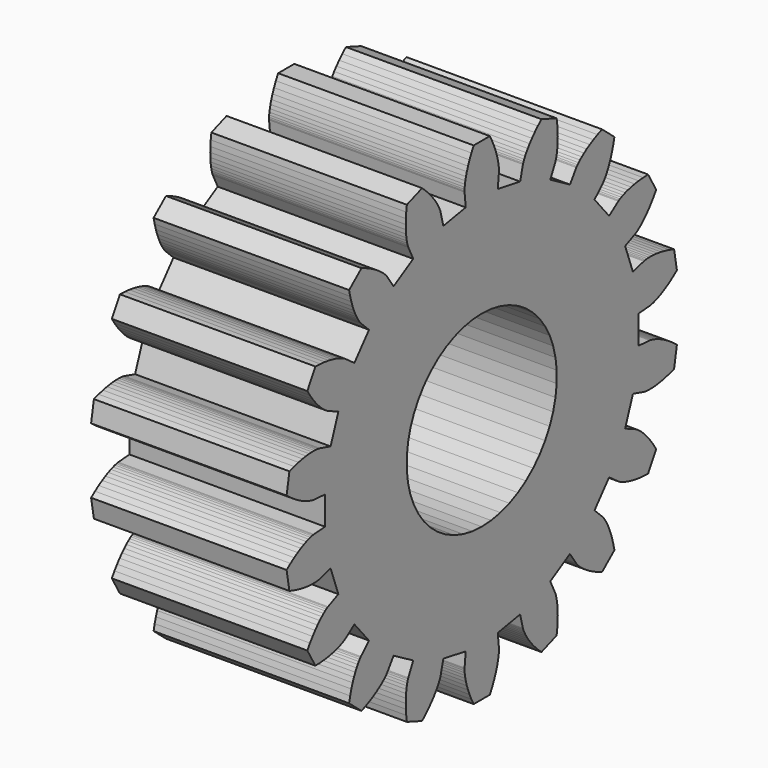
from build123d import *

# Parameters (mm, degrees)
PRISM_DEPTH            = 7
LINEAREXTRUDE_DEPTH    = 5
DIFFERENCE_PITCH_ANGLE = 90


with BuildPart() as prism:
    # prism → prism (new body)
    with BuildSketch(Plane.XY.offset(-1)):
        Polygon((2.4, 0), (2.381075, 0.3008), (2.3246, 0.596856), (2.231464, 0.883499), (2.103136, 1.156209), (1.941641, 1.410685), (1.749525, 1.642913), (1.529818, 1.849232), (1.285984, 2.026387), (1.02187, 2.171585), (0.741641, 2.282536), (0.449715, 2.357489), (0.150697, 2.395264), (-0.150697, 2.395264), (-0.449715, 2.357489), (-0.741641, 2.282536), (-1.02187, 2.171585), (-1.285984, 2.026387), (-1.529818, 1.849232), (-1.749525, 1.642913), (-1.941641, 1.410685), (-2.103136, 1.156209), (-2.231464, 0.883499), (-2.3246, 0.596856), (-2.381075, 0.3008), (-2.4, 0), (-2.381075, -0.3008), (-2.3246, -0.596856), (-2.231464, -0.883499), (-2.103136, -1.156209), (-1.941641, -1.410685), (-1.749525, -1.642913), (-1.529818, -1.849232), (-1.285984, -2.026387), (-1.02187, -2.171585), (-0.741641, -2.282536), (-0.449715, -2.357489), (-0.150697, -2.395264), (0.150697, -2.395264), (0.449715, -2.357489), (0.741641, -2.282536), (1.02187, -2.171585), (1.285984, -2.026387), (1.529818, -1.849232), (1.749525, -1.642913), (1.941641, -1.410685), (2.103136, -1.156209), (2.231464, -0.883499), (2.3246, -0.596856), (2.381075, -0.3008), align=None)
    extrude(amount=PRISM_DEPTH)


with BuildPart() as pinion_final:
    # RefineLinearExtrude → LinearExtrude (new body)
    with BuildSketch(Plane(origin=(0, 0, 0), x_dir=(0, -1, 0), z_dir=(0, 0, -1))):
        Polygon((-0.504573, -5.68792), (-0.476443, -5.78688), (-0.438951, -5.89728), (-0.390882, -6.0184), (-0.331072, -6.14942), (-0.258414, -6.28943), (0.258414, -6.28943), (0.331072, -6.14942), (0.390882, -6.0184), (0.438951, -5.89728), (0.476443, -5.78688), (0.504573, -5.68792), (0.524602, -5.60104), (0.537828, -5.52677), (0.54558, -5.46553), (0.54921, -5.41766), (0.550092, -5.38338), (0.549605, -5.36281), (0.549136, -5.35596), (0.512344, -4.997112), (1.227667, -4.870981), (1.315827, -5.220772), (1.317729, -5.227369), (1.324307, -5.246865), (1.33686, -5.278776), (1.356644, -5.322518), (1.384874, -5.377413), (1.422704, -5.44268), (1.47124, -5.517471), (1.53152, -5.600842), (1.60451, -5.691761), (1.691105, -5.789136), (1.79212, -5.891798), (1.908282, -5.998514), (2.393941, -5.821748), (2.414331, -5.665331), (2.425723, -5.521757), (2.429468, -5.3915), (2.426939, -5.274935), (2.419527, -5.172322), (2.408633, -5.083832), (2.39566, -5.009517), (2.381999, -4.949319), (2.369037, -4.903094), (2.358142, -4.87058), (2.350649, -4.851417), (2.347865, -4.845141), (2.190559, -4.520517), (2.819603, -4.157338), (3.022082, -4.455881), (3.026126, -4.46143), (3.038975, -4.477501), (3.061685, -4.503194), (3.095236, -4.537531), (3.140539, -4.579461), (3.198411, -4.627853), (3.269599, -4.681533), (3.354758, -4.739259), (3.454443, -4.799731), (3.56912, -4.861616), (3.699155, -4.923538), (3.844811, -4.984088), (4.240724, -4.651878), (4.206387, -4.49792), (4.167986, -4.359108), (4.126954, -4.235426), (4.084711, -4.126756), (4.04265, -4.032866), (4.002148, -3.953438), (3.964539, -3.888042), (3.931113, -3.836147), (3.903124, -3.797143), (3.881765, -3.770316), (3.86817, -3.754872), (3.863407, -3.749926), (3.60456, -3.498681), (4.071454, -2.942259), (4.363829, -3.153546), (4.369527, -3.157377), (4.387098, -3.168084), (4.417226, -3.18446), (4.460498, -3.205251), (4.517409, -3.229158), (4.588342, -3.254839), (4.673597, -3.280933), (4.773364, -3.306052), (4.887719, -3.328783), (5.016646, -3.347714), (5.160018, -3.361427), (5.317599, -3.368508), (5.576013, -2.920922), (5.49109, -2.787993), (5.407528, -2.670686), (5.32667, -2.568497), (5.249807, -2.480828), (5.17817, -2.406987), (5.112944, -2.346201), (5.055237, -2.297612), (5.006078, -2.260279), (4.966436, -2.2332), (4.93719, -2.215296), (4.919132, -2.205433), (4.912965, -2.202414), (4.583798, -2.054853), (4.832227, -1.3723), (5.179234, -1.470846), (5.185899, -1.472497), (5.206072, -1.476549), (5.239984, -1.481633), (5.287757, -1.486371), (5.349413, -1.489371), (5.424851, -1.489243), (5.51389, -1.484604), (5.616231, -1.474086), (5.731464, -1.456334), (5.859091, -1.430028), (5.998506, -1.393878), (6.149006, -1.346636), (6.238753, -0.83766), (6.113487, -0.741793), (5.994843, -0.660141), (5.88391, -0.59177), (5.781698, -0.535676), (5.689126, -0.49079), (5.607044, -0.455978), (5.536199, -0.430056), (5.477235, -0.411788), (5.430723, -0.399901), (5.397117, -0.393079), (5.376775, -0.389987), (5.369947, -0.389259), (5.010162, -0.363179), (5.010162, 0.363179), (5.369947, 0.389259), (5.376775, 0.389987), (5.397117, 0.393079), (5.430723, 0.399901), (5.477235, 0.411788), (5.536199, 0.430056), (5.607044, 0.455978), (5.689126, 0.49079), (5.781698, 0.535676), (5.88391, 0.59177), (5.994843, 0.660141), (6.113487, 0.741793), (6.238753, 0.83766), (6.149006, 1.346636), (5.998506, 1.393878), (5.859091, 1.430028), (5.731464, 1.456334), (5.616231, 1.474086), (5.51389, 1.484604), (5.424851, 1.489243), (5.349413, 1.489371), (5.287757, 1.486371), (5.239984, 1.481633), (5.206072, 1.476549), (5.185899, 1.472497), (5.179234, 1.470846), (4.832227, 1.3723), (4.583797, 2.054855), (4.912965, 2.202416), (4.919131, 2.205435), (4.937189, 2.215298), (4.966435, 2.233202), (5.006077, 2.260281), (5.055236, 2.297614), (5.112943, 2.346203), (5.178169, 2.406989), (5.249806, 2.48083), (5.326669, 2.568499), (5.407527, 2.670688), (5.491089, 2.787995), (5.576012, 2.920924), (5.317598, 3.36851), (5.160017, 3.361429), (5.016645, 3.347716), (4.887717, 3.328785), (4.773362, 3.306054), (4.673595, 3.280935), (4.588341, 3.254841), (4.517408, 3.22916), (4.460497, 3.205253), (4.417225, 3.184462), (4.387097, 3.168085), (4.369526, 3.157379), (4.363828, 3.153547), (4.071452, 2.94226), (3.604562, 3.498679), (3.863409, 3.749923), (3.868172, 3.754869), (3.881767, 3.770314), (3.903126, 3.797141), (3.931116, 3.836145), (3.964542, 3.88804), (4.00215, 3.953436), (4.042652, 4.032864), (4.084714, 4.126753), (4.126957, 4.235424), (4.167988, 4.359105), (4.206389, 4.497918), (4.240727, 4.651875), (3.844814, 4.984086), (3.699158, 4.923536), (3.569123, 4.861614), (3.454445, 4.799729), (3.354761, 4.739257), (3.269602, 4.681531), (3.198413, 4.627851), (3.140542, 4.579459), (3.095239, 4.537529), (3.061688, 4.503192), (3.038978, 4.477499), (3.026128, 4.461428), (3.022085, 4.45588), (2.819606, 4.157337), (2.190558, 4.520518), (2.347864, 4.845141), (2.350648, 4.851417), (2.358141, 4.87058), (2.369036, 4.903095), (2.381998, 4.949319), (2.395659, 5.009517), (2.408632, 5.083832), (2.419526, 5.172323), (2.426938, 5.274936), (2.429466, 5.391501), (2.425722, 5.521757), (2.41433, 5.665332), (2.39394, 5.821749), (1.908281, 5.998514), (1.792118, 5.891798), (1.691104, 5.789136), (1.604508, 5.691761), (1.531518, 5.600842), (1.471239, 5.517471), (1.422703, 5.442681), (1.384873, 5.377413), (1.356643, 5.322518), (1.336859, 5.278776), (1.324306, 5.246865), (1.317728, 5.227369), (1.315826, 5.220772), (1.227666, 4.870981), (0.512344, 4.997112), (0.549136, 5.35596), (0.549605, 5.36281), (0.550092, 5.38338), (0.54921, 5.41766), (0.54558, 5.46553), (0.537828, 5.52677), (0.524602, 5.60104), (0.504573, 5.68792), (0.476443, 5.78688), (0.438951, 5.89728), (0.390882, 6.0184), (0.331072, 6.14942), (0.258414, 6.28943), (-0.258414, 6.28943), (-0.331072, 6.14942), (-0.390882, 6.0184), (-0.438951, 5.89728), (-0.476443, 5.78688), (-0.504573, 5.68792), (-0.524602, 5.60104), (-0.537828, 5.52677), (-0.54558, 5.46553), (-0.54921, 5.41766), (-0.550092, 5.38338), (-0.549605, 5.36281), (-0.549136, 5.35596), (-0.512344, 4.997112), (-1.227667, 4.870981), (-1.315827, 5.220772), (-1.317729, 5.227369), (-1.324307, 5.246865), (-1.33686, 5.278776), (-1.356644, 5.322518), (-1.384874, 5.377413), (-1.422704, 5.44268), (-1.47124, 5.517471), (-1.53152, 5.600842), (-1.60451, 5.691761), (-1.691105, 5.789136), (-1.79212, 5.891798), (-1.908282, 5.998514), (-2.393941, 5.821748), (-2.414331, 5.665331), (-2.425723, 5.521757), (-2.429468, 5.3915), (-2.426939, 5.274935), (-2.419527, 5.172322), (-2.408633, 5.083832), (-2.39566, 5.009517), (-2.381999, 4.949319), (-2.369037, 4.903094), (-2.358142, 4.87058), (-2.350649, 4.851417), (-2.347865, 4.845141), (-2.190559, 4.520517), (-2.819603, 4.157338), (-3.022082, 4.455881), (-3.026126, 4.46143), (-3.038975, 4.477501), (-3.061685, 4.503194), (-3.095236, 4.537531), (-3.140539, 4.579461), (-3.198411, 4.627853), (-3.269599, 4.681533), (-3.354758, 4.739259), (-3.454443, 4.799731), (-3.56912, 4.861616), (-3.699155, 4.923538), (-3.844811, 4.984088), (-4.240724, 4.651878), (-4.206387, 4.49792), (-4.167986, 4.359108), (-4.126954, 4.235426), (-4.084711, 4.126756), (-4.04265, 4.032866), (-4.002148, 3.953438), (-3.964539, 3.888042), (-3.931113, 3.836147), (-3.903124, 3.797143), (-3.881765, 3.770316), (-3.86817, 3.754872), (-3.863407, 3.749926), (-3.60456, 3.498681), (-4.071454, 2.942259), (-4.363829, 3.153546), (-4.369527, 3.157377), (-4.387098, 3.168084), (-4.417226, 3.18446), (-4.460498, 3.205251), (-4.517409, 3.229158), (-4.588342, 3.254839), (-4.673597, 3.280933), (-4.773364, 3.306052), (-4.887719, 3.328783), (-5.016646, 3.347714), (-5.160018, 3.361427), (-5.317599, 3.368508), (-5.576013, 2.920922), (-5.49109, 2.787993), (-5.407528, 2.670686), (-5.32667, 2.568497), (-5.249807, 2.480828), (-5.17817, 2.406987), (-5.112944, 2.346201), (-5.055237, 2.297612), (-5.006078, 2.260279), (-4.966436, 2.2332), (-4.93719, 2.215296), (-4.919132, 2.205433), (-4.912965, 2.202414), (-4.583798, 2.054853), (-4.832227, 1.3723), (-5.179234, 1.470846), (-5.185899, 1.472497), (-5.206072, 1.476549), (-5.239984, 1.481633), (-5.287757, 1.486371), (-5.349413, 1.489371), (-5.424851, 1.489243), (-5.51389, 1.484604), (-5.616231, 1.474086), (-5.731464, 1.456334), (-5.859091, 1.430028), (-5.998506, 1.393878), (-6.149006, 1.346636), (-6.238753, 0.83766), (-6.113487, 0.741793), (-5.994843, 0.660141), (-5.88391, 0.59177), (-5.781698, 0.535676), (-5.689126, 0.49079), (-5.607044, 0.455978), (-5.536199, 0.430056), (-5.477235, 0.411788), (-5.430723, 0.399901), (-5.397117, 0.393079), (-5.376775, 0.389987), (-5.369947, 0.389259), (-5.010162, 0.363179), (-5.010162, -0.363179), (-5.369947, -0.389259), (-5.376775, -0.389987), (-5.397117, -0.393079), (-5.430723, -0.399901), (-5.477235, -0.411788), (-5.536199, -0.430056), (-5.607044, -0.455978), (-5.689126, -0.49079), (-5.781698, -0.535676), (-5.88391, -0.59177), (-5.994843, -0.660141), (-6.113487, -0.741793), (-6.238753, -0.83766), (-6.149006, -1.346636), (-5.998506, -1.393878), (-5.859091, -1.430028), (-5.731464, -1.456334), (-5.616231, -1.474086), (-5.51389, -1.484604), (-5.424851, -1.489243), (-5.349413, -1.489371), (-5.287757, -1.486371), (-5.239984, -1.481633), (-5.206072, -1.476549), (-5.185899, -1.472497), (-5.179234, -1.470846), (-4.832227, -1.3723), (-4.583798, -2.054853), (-4.912965, -2.202414), (-4.919132, -2.205433), (-4.93719, -2.215296), (-4.966436, -2.2332), (-5.006078, -2.260279), (-5.055237, -2.297612), (-5.112944, -2.346201), (-5.17817, -2.406987), (-5.249807, -2.480828), (-5.32667, -2.568497), (-5.407528, -2.670686), (-5.49109, -2.787993), (-5.576013, -2.920922), (-5.317599, -3.368508), (-5.160018, -3.361427), (-5.016646, -3.347714), (-4.887719, -3.328783), (-4.773364, -3.306052), (-4.673597, -3.280933), (-4.588342, -3.254839), (-4.517409, -3.229158), (-4.460498, -3.205251), (-4.417226, -3.18446), (-4.387098, -3.168084), (-4.369527, -3.157377), (-4.363829, -3.153546), (-4.071454, -2.942259), (-3.60456, -3.498681), (-3.863407, -3.749926), (-3.86817, -3.754872), (-3.881765, -3.770316), (-3.903124, -3.797143), (-3.931113, -3.836147), (-3.964539, -3.888042), (-4.002148, -3.953438), (-4.04265, -4.032866), (-4.084711, -4.126756), (-4.126954, -4.235426), (-4.167986, -4.359108), (-4.206387, -4.49792), (-4.240724, -4.651878), (-3.844811, -4.984088), (-3.699155, -4.923538), (-3.56912, -4.861616), (-3.454443, -4.799731), (-3.354758, -4.739259), (-3.269599, -4.681533), (-3.198411, -4.627853), (-3.140539, -4.579461), (-3.095236, -4.537531), (-3.061685, -4.503194), (-3.038975, -4.477501), (-3.026126, -4.46143), (-3.022082, -4.455881), (-2.819603, -4.157338), (-2.190559, -4.520517), (-2.347865, -4.845141), (-2.350649, -4.851417), (-2.358142, -4.87058), (-2.369037, -4.903094), (-2.381999, -4.949319), (-2.39566, -5.009517), (-2.408633, -5.083832), (-2.419527, -5.172322), (-2.426939, -5.274935), (-2.429468, -5.3915), (-2.425723, -5.521757), (-2.414331, -5.665331), (-2.393941, -5.821748), (-1.908282, -5.998514), (-1.79212, -5.891798), (-1.691105, -5.789136), (-1.60451, -5.691761), (-1.53152, -5.600842), (-1.47124, -5.517471), (-1.422704, -5.44268), (-1.384874, -5.377413), (-1.356644, -5.322518), (-1.33686, -5.278776), (-1.324307, -5.246865), (-1.317729, -5.227369), (-1.315827, -5.220772), (-1.227667, -4.870981), (-0.512344, -4.997112), (-0.549136, -5.35596), (-0.549605, -5.36281), (-0.550092, -5.38338), (-0.54921, -5.41766), (-0.54558, -5.46553), (-0.537828, -5.52677), (-0.524602, -5.60104), align=None)
    extrude(amount=-LINEAREXTRUDE_DEPTH)

    # difference: cut prism
    add(prism.part, mode=Mode.SUBTRACT)


with BuildPart() as pinion_final_1:
    # difference pitch: moved
    add(pinion_final.part.rotate(Axis((0, 0, 0), (0, 1, 0)), DIFFERENCE_PITCH_ANGLE))


with BuildPart() as pinion_final_2:
    # difference placement: moved
    add(pinion_final_1.part.moved(Location((6, 26, 15.5))))


solid = pinion_final_2.part
